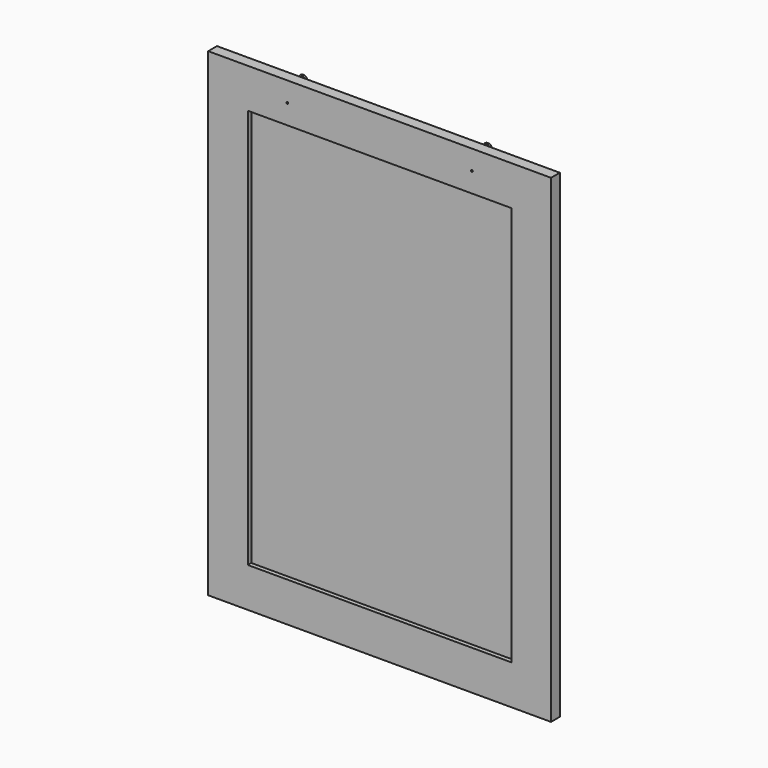
from build123d import *

# Parameters (mm, degrees)
F0_W     = 780
F0_H     = 1090
F0_W_2   = 600
F0_H_2   = 910
F1_DEPTH = 25
F3_W     = 600
F3_H     = 910
F4_DEPTH = 10
F5_W     = 730
F5_H     = 65
F6_DEPTH = 20
F7_R     = 2
F8_DEPTH = 45
F12_R    = 1.5


with BuildPart() as f1:
    # F0 (on Front) → F1 (new body)
    with BuildSketch(Plane.XZ):
        with Locations((0, -545)):
            Rectangle(F0_W, F0_H)
        with Locations((0, -545)):
            Rectangle(F0_W_2, F0_H_2, mode=Mode.SUBTRACT)
    extrude(amount=F1_DEPTH)

    # F3 (on offset) → F4 (join)
    with BuildSketch(Plane.XZ.offset(5)):
        with Locations((0, -545)):
            Rectangle(F3_W, F3_H)
    extrude(amount=F4_DEPTH)

    # F5 (on face) → F6 (join)
    with BuildSketch(Plane(origin=(0, 0, 0), x_dir=(-1, 0, 0), z_dir=(0, 1, 0))):
        with Locations((0, -62.5)):
            Rectangle(F5_W, F5_H)
    extrude(amount=F6_DEPTH)

    # F7 (on face) → F8 (cut, through all)
    with BuildSketch(Plane(origin=(0, 20, 0), x_dir=(-1, 0, 0), z_dir=(0, 1, 0))):
        with Locations((210, -45)):
            Circle(F7_R)
        with Locations((-210, -45)):
            Circle(F7_R)
    extrude(amount=-F8_DEPTH, mode=Mode.SUBTRACT)


with BuildPart() as f13:
    # F13: sweep along a path in F10
    with BuildLine(Plane(origin=(0, 20, 0), x_dir=(-1, 0, 0), z_dir=(0, 1, 0))) as f13_path:
        Line((210, -49), (210, -29))
        ThreePointArc((210, -29), (209.2496153619, -26.6676192421), (207.28, -25.2103298297))
        ThreePointArc((207.28, -25.2103298297), (209.8513288409, -8.6585810003), (213, -25.110267578))
    # F12 (on line) → F13 (sweep)
    with BuildSketch(Plane(origin=(-178.1750189022, 0, 67.2106047824), x_dir=(0, -1, 0), z_dir=(-0.935645513, 0, 0.3529411765))):
        with Locations((-20, -98.6707797772)):
            Circle(F12_R)
    sweep(path=f13_path.line)


with BuildPart() as f14_1:
    # F14: instance of F13
    add(f13.part.mirror(Plane.YZ))


solid = Compound([f1.part, f13.part, f14_1.part])
